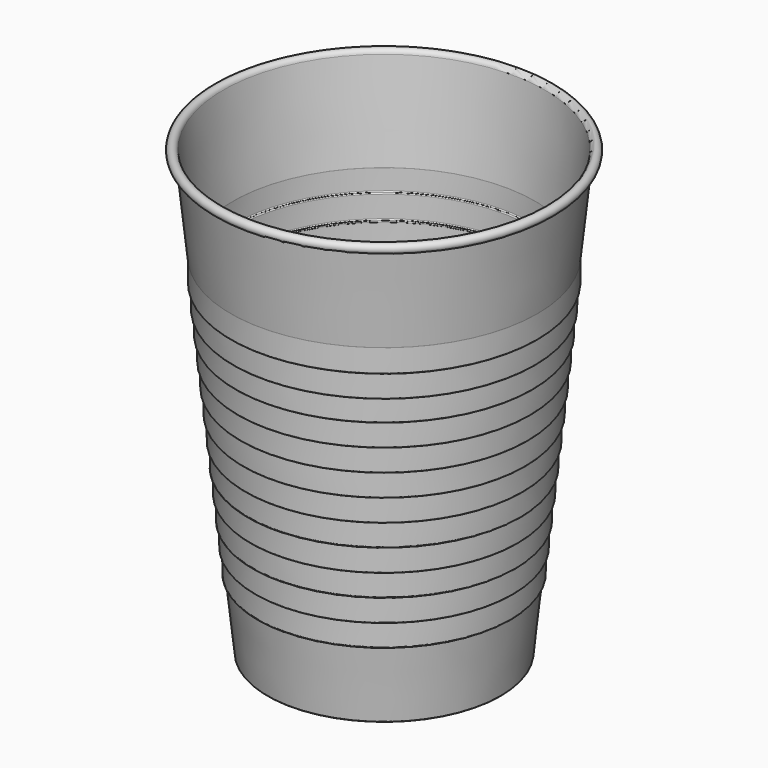
from build123d import *


with BuildPart() as f1:
    # F0 (on Front) → F1 (revolve)
    with BuildSketch(Plane.XZ):
        with BuildLine():
            Line((0, 0.5), (0, 0))
            Line((0, 0), (24.819948, 0))
            ThreePointArc((24.819948, 0), (24.953762, 0.051361), (25.018849, 0.179063))
            Line((25.018849, 0.179063), (26.560099, 14.820937))
            ThreePointArc((26.560099, 14.820937), (26.625185, 14.948639), (26.759, 15))
            Line((26.759, 15), (26.879997, 15))
            ThreePointArc((26.879997, 15), (27.021046, 15.058207), (27.079994, 15.198947))
            Line((27.079994, 15.198947), (27.104216, 19.801053))
            ThreePointArc((27.104216, 19.801053), (27.163165, 19.941793), (27.304213, 20))
            Line((27.304213, 20), (27.406313, 20))
            ThreePointArc((27.406313, 20), (27.547362, 20.058207), (27.60631, 20.198948))
            Line((27.60631, 20.198948), (27.630525, 24.800983))
            ThreePointArc((27.630525, 24.800983), (27.689473, 24.941724), (27.830522, 24.999931))
            Line((27.830522, 24.999931), (27.932622, 24.999931))
            ThreePointArc((27.932622, 24.999931), (28.07367, 25.058138), (28.132619, 25.198878))
            Line((28.132619, 25.198878), (28.15684, 29.800983))
            ThreePointArc((28.15684, 29.800983), (28.215789, 29.941724), (28.356838, 29.999931))
            Line((28.356838, 29.999931), (28.458937, 29.999931))
            ThreePointArc((28.458937, 29.999931), (28.599986, 30.058138), (28.658934, 30.198878))
            Line((28.658934, 30.198878), (28.683149, 34.800914))
            ThreePointArc((28.683149, 34.800914), (28.742098, 34.941654), (28.883146, 34.999862))
            Line((28.883146, 34.999862), (28.985246, 34.999862))
            ThreePointArc((28.985246, 34.999862), (29.126294, 35.058069), (29.185243, 35.198809))
            Line((29.185243, 35.198809), (29.209458, 39.800845))
            ThreePointArc((29.209458, 39.800845), (29.268406, 39.941585), (29.409455, 39.999792))
            Line((29.409455, 39.999792), (29.511554, 39.999792))
            ThreePointArc((29.511554, 39.999792), (29.652603, 40.057999), (29.711551, 40.19874))
            Line((29.711551, 40.19874), (29.735766, 44.800775))
            ThreePointArc((29.735766, 44.800775), (29.794715, 44.941516), (29.935763, 44.999723))
            Line((29.935763, 44.999723), (30.037863, 44.999723))
            ThreePointArc((30.037863, 44.999723), (30.178911, 45.05793), (30.23786, 45.198671))
            Line((30.23786, 45.198671), (30.262075, 49.800706))
            ThreePointArc((30.262075, 49.800706), (30.321023, 49.941447), (30.462072, 49.999654))
            Line((30.462072, 49.999654), (30.564171, 49.999654))
            ThreePointArc((30.564171, 49.999654), (30.70522, 50.057861), (30.764168, 50.198602))
            Line((30.764168, 50.198602), (30.788383, 54.800637))
            ThreePointArc((30.788383, 54.800637), (30.847332, 54.941378), (30.98838, 54.999585))
            Line((30.98838, 54.999585), (31.09048, 54.999585))
            ThreePointArc((31.09048, 54.999585), (31.231528, 55.057792), (31.290477, 55.198532))
            Line((31.290477, 55.198532), (31.314692, 59.800568))
            ThreePointArc((31.314692, 59.800568), (31.37364, 59.941308), (31.514689, 59.999516))
            Line((31.514689, 59.999516), (31.615738, 59.999516))
            ThreePointArc((31.615738, 59.999516), (31.75716, 60.058094), (31.815738, 60.199516))
            Line((31.815738, 60.199516), (31.815738, 64.549516))
            ThreePointArc((31.815738, 64.549516), (31.874317, 64.690937), (32.015738, 64.749516))
            Line((32.015738, 64.749516), (32.116788, 64.749516))
            ThreePointArc((32.116788, 64.749516), (32.257837, 64.807723), (32.316785, 64.948463))
            Line((32.316785, 64.948463), (32.341, 69.550499))
            ThreePointArc((32.341, 69.550499), (32.399949, 69.691239), (32.540997, 69.749446))
            Line((32.540997, 69.749446), (32.643097, 69.749446))
            ThreePointArc((32.643097, 69.749446), (32.784145, 69.807653), (32.843094, 69.948394))
            Line((32.843094, 69.948394), (32.868303, 74.739407))
            ThreePointArc((32.868303, 74.739407), (32.868603, 74.749363), (32.869399, 74.759292))
            Line((32.869399, 74.759292), (35, 95))
            ThreePointArc((35, 95), (35.942774, 95.174618), (35.247253, 94.514645))
            Line((35.247253, 94.514645), (34.997253, 94.081632))
            ThreePointArc((34.997253, 94.081632), (36.388295, 95.401578), (34.502747, 95.052342))
            Line((34.502747, 95.052342), (32.369537, 74.786847))
            ThreePointArc((32.369537, 74.786847), (32.368742, 74.776918), (32.368441, 74.766962))
            Line((32.368441, 74.766962), (32.345718, 70.448394))
            ThreePointArc((32.345718, 70.448394), (32.286769, 70.307653), (32.145721, 70.249446))
            Line((32.145721, 70.249446), (32.043621, 70.249446))
            ThreePointArc((32.043621, 70.249446), (31.902573, 70.191239), (31.843624, 70.050499))
            Line((31.843624, 70.050499), (31.819409, 65.448463))
            ThreePointArc((31.819409, 65.448463), (31.760461, 65.307723), (31.619412, 65.249516))
            Line((31.619412, 65.249516), (31.515738, 65.249516))
            ThreePointArc((31.515738, 65.249516), (31.374317, 65.190937), (31.315738, 65.049516))
            Line((31.315738, 65.049516), (31.315738, 60.699516))
            ThreePointArc((31.315738, 60.699516), (31.25716, 60.558094), (31.115738, 60.499516))
            Line((31.115738, 60.499516), (31.017313, 60.499516))
            ThreePointArc((31.017313, 60.499516), (30.876264, 60.441308), (30.817316, 60.300568))
            Line((30.817316, 60.300568), (30.793101, 55.698532))
            ThreePointArc((30.793101, 55.698532), (30.734152, 55.557792), (30.593104, 55.499585))
            Line((30.593104, 55.499585), (30.491004, 55.499585))
            ThreePointArc((30.491004, 55.499585), (30.349956, 55.441378), (30.291007, 55.300637))
            Line((30.291007, 55.300637), (30.266792, 50.698602))
            ThreePointArc((30.266792, 50.698602), (30.207844, 50.557861), (30.066795, 50.499654))
            Line((30.066795, 50.499654), (29.964696, 50.499654))
            ThreePointArc((29.964696, 50.499654), (29.823647, 50.441447), (29.764699, 50.300706))
            Line((29.764699, 50.300706), (29.740484, 45.698671))
            ThreePointArc((29.740484, 45.698671), (29.681535, 45.55793), (29.540487, 45.499723))
            Line((29.540487, 45.499723), (29.438387, 45.499723))
            ThreePointArc((29.438387, 45.499723), (29.297339, 45.441516), (29.23839, 45.300775))
            Line((29.23839, 45.300775), (29.214175, 40.69874))
            ThreePointArc((29.214175, 40.69874), (29.155227, 40.557999), (29.014178, 40.499792))
            Line((29.014178, 40.499792), (28.912079, 40.499792))
            ThreePointArc((28.912079, 40.499792), (28.77103, 40.441585), (28.712082, 40.300845))
            Line((28.712082, 40.300845), (28.687867, 35.698809))
            ThreePointArc((28.687867, 35.698809), (28.628918, 35.558069), (28.48787, 35.499862))
            Line((28.48787, 35.499862), (28.38577, 35.499862))
            ThreePointArc((28.38577, 35.499862), (28.244722, 35.441654), (28.185773, 35.300914))
            Line((28.185773, 35.300914), (28.161558, 30.698878))
            ThreePointArc((28.161558, 30.698878), (28.10261, 30.558138), (27.961561, 30.499931))
            Line((27.961561, 30.499931), (27.859462, 30.499931))
            ThreePointArc((27.859462, 30.499931), (27.718414, 30.441724), (27.659465, 30.300983))
            Line((27.659465, 30.300983), (27.635243, 25.698878))
            ThreePointArc((27.635243, 25.698878), (27.576295, 25.558138), (27.435246, 25.499931))
            Line((27.435246, 25.499931), (27.333146, 25.499931))
            ThreePointArc((27.333146, 25.499931), (27.192097, 25.441724), (27.133149, 25.300983))
            Line((27.133149, 25.300983), (27.108934, 20.698948))
            ThreePointArc((27.108934, 20.698948), (27.049986, 20.558207), (26.908937, 20.5))
            Line((26.908937, 20.5), (26.806838, 20.5))
            ThreePointArc((26.806838, 20.5), (26.665789, 20.441793), (26.606841, 20.301053))
            Line((26.606841, 20.301053), (26.583143, 15.798421))
            ThreePointArc((26.583143, 15.798421), (26.49472, 15.58731), (26.283147, 15.5))
            Line((26.283147, 15.5), (26.308869, 15.5))
            ThreePointArc((26.308869, 15.5), (26.175054, 15.448639), (26.109968, 15.320937))
            Line((26.109968, 15.320937), (24.568718, 0.679063))
            ThreePointArc((24.568718, 0.679063), (24.503631, 0.551361), (24.369817, 0.5))
            Line((24.369817, 0.5), (0, 0.5))
        make_face()
    revolve(axis=Axis((0, 0, 37.334799), (0, 0, 1)))


solid = f1.part
